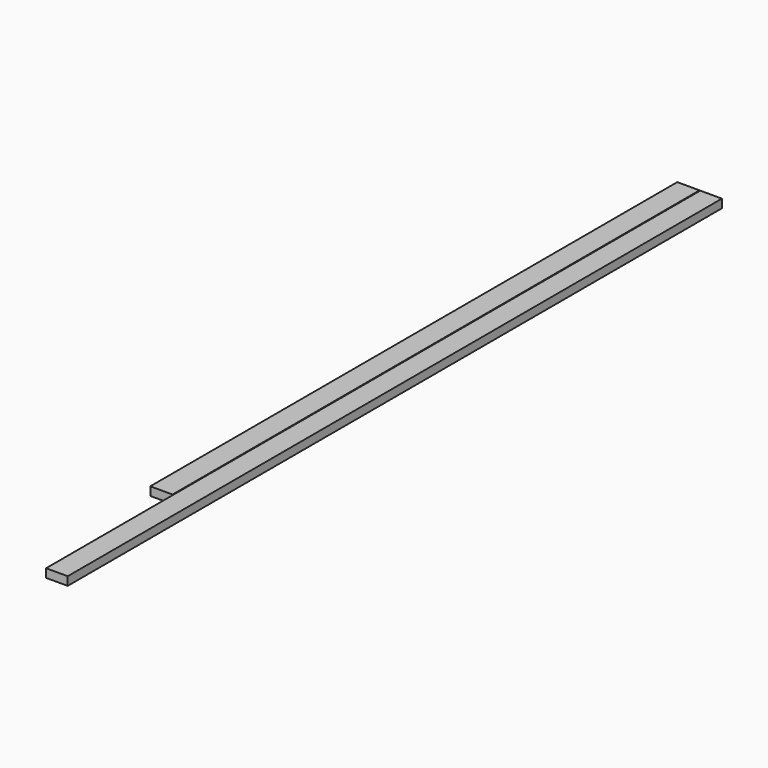
from build123d import *

# Parameters (mm, degrees)
F0_W     = 48.392119
F0_H     = 19.05
F1_DEPTH = 1828.8
F2_W     = 49.784
F2_H     = 19.05
F3_DEPTH = 1473.2


with BuildPart() as f1:
    # F0 (on Front) → F1 (new body)
    with BuildSketch(Plane.XZ):
        with Locations((21.368949, 9.525)):
            Rectangle(F0_W, F0_H)
    extrude(amount=F1_DEPTH)


with BuildPart() as f3:
    # F2 (on Front) → F3 (new body)
    with BuildSketch(Plane.XZ):
        with Locations((-29.427587, 9.525)):
            Rectangle(F2_W, F2_H)
        with Locations((-29.427587, 9.525)):
            Rectangle(F2_W, F2_H)
    extrude(amount=F3_DEPTH)


solid = Compound([f1.part, f3.part])
